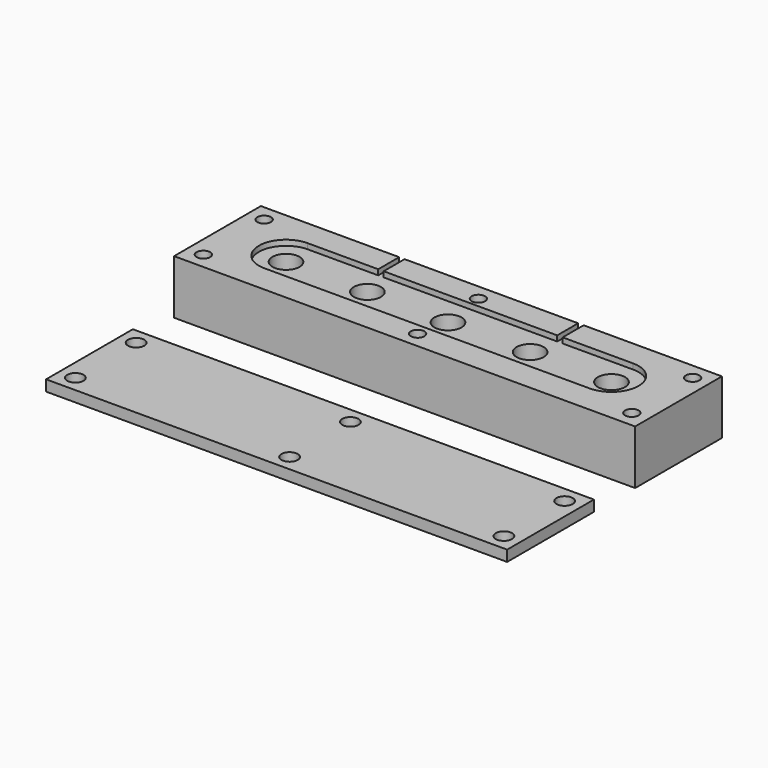
from build123d import *

# Parameters (mm, degrees)
F0_W      = 85
F0_H      = 20
F1_DEPTH  = 10
F2_R      = 2.5
F3_DEPTH  = 6
F4_DEPTH  = 1
F5_R      = 1.25
F6_DEPTH  = 8
F7_R      = 1
F8_W      = 1
F8_H      = 4.8267034825
F9_DEPTH  = 1
F10_W     = 85
F10_H     = 20
F10_R     = 1.5
F11_DEPTH = 2


with BuildPart() as f1:
    # F0 (on Top) → F1 (new body)
    with BuildSketch(Plane.XY):
        Rectangle(F0_W, F0_H)
    extrude(amount=F1_DEPTH)

    # F2 (on face) → F3 (cut)
    with BuildSketch(Plane.XY.offset(10)):
        with Locations((-30, 0.1732965175)):
            Circle(F2_R)
        with Locations((-15, 0.1732965175)):
            Circle(F2_R)
        Circle(F2_R)
        with Locations((15, 0.1732965175)):
            Circle(F2_R)
        with Locations((30, 0.1732965175)):
            Circle(F2_R)
    extrude(amount=-F3_DEPTH, mode=Mode.SUBTRACT)

    # F2 (on face) → F4 (cut)
    with BuildSketch(Plane.XY.offset(10)):
        with BuildLine():
            Line((30, 5.1732965175), (-30, 5.1732965175))
            ThreePointArc((-30, 5.1732965175), (-35, 0.1732965175), (-30, -4.8267034825))
            Line((-30, -4.8267034825), (30, -4.8267034825))
            ThreePointArc((30, -4.8267034825), (35, 0.1732965175), (30, 5.1732965175))
        make_face()
        with Locations((-30, 0.1732965175)):
            Circle(F2_R, mode=Mode.SUBTRACT)
        with Locations((-15, 0.1732965175)):
            Circle(F2_R, mode=Mode.SUBTRACT)
        Circle(F2_R, mode=Mode.SUBTRACT)
        with Locations((15, 0.1732965175)):
            Circle(F2_R, mode=Mode.SUBTRACT)
        with Locations((30, 0.1732965175)):
            Circle(F2_R, mode=Mode.SUBTRACT)
    extrude(amount=-F4_DEPTH, mode=Mode.SUBTRACT)

    # F5 (on face) → F6 (cut)
    with BuildSketch(Plane.XY.offset(10)):
        with Locations((-39.5, 7)):
            Circle(F5_R)
        with Locations((-39.5, -7)):
            Circle(F5_R)
        with Locations((39.5, 7)):
            Circle(F5_R)
        with Locations((39.5, -7)):
            Circle(F5_R)
        with Locations((0, 7)):
            Circle(F5_R)
        with Locations((0, -7)):
            Circle(F5_R)
    extrude(amount=-F6_DEPTH, mode=Mode.SUBTRACT)

    # F7
    f7_edges = [f1.edges().sort_by_distance(p)[0] for p in [
        (-32.5, 0.173297, 4),
        (-17.5, 0.173297, 4),
        (-2.5, 0, 4),
        (12.5, 0.173297, 4),
        (27.5, 0.173297, 4),
    ]]
    fillet(f7_edges, radius=F7_R)

    # F8 (on face) → F9 (cut, through all)
    with BuildSketch(Plane.XY.offset(10)):
        with Locations((-16.5, 7.5866482587)):
            Rectangle(F8_W, F8_H)
        with Locations((16.5, 7.5866482587)):
            Rectangle(F8_W, F8_H)
    extrude(amount=-F9_DEPTH, mode=Mode.SUBTRACT)


with BuildPart() as f11:
    # F10 (on Top) → F11 (new body)
    with BuildSketch(Plane.XY):
        with Locations((0, -29.4953899086)):
            Rectangle(F10_W, F10_H)
        with Locations((-39.5, -36.4953899086)):
            Circle(F10_R, mode=Mode.SUBTRACT)
        with Locations((0, -36.4953899086)):
            Circle(F10_R, mode=Mode.SUBTRACT)
        with Locations((39.5, -36.4953899086)):
            Circle(F10_R, mode=Mode.SUBTRACT)
        with Locations((-39.5, -22.4953899086)):
            Circle(F10_R, mode=Mode.SUBTRACT)
        with Locations((0, -22.4953899086)):
            Circle(F10_R, mode=Mode.SUBTRACT)
        with Locations((39.5, -22.4953899086)):
            Circle(F10_R, mode=Mode.SUBTRACT)
    extrude(amount=F11_DEPTH)


solid = Compound([f1.part, f11.part])
